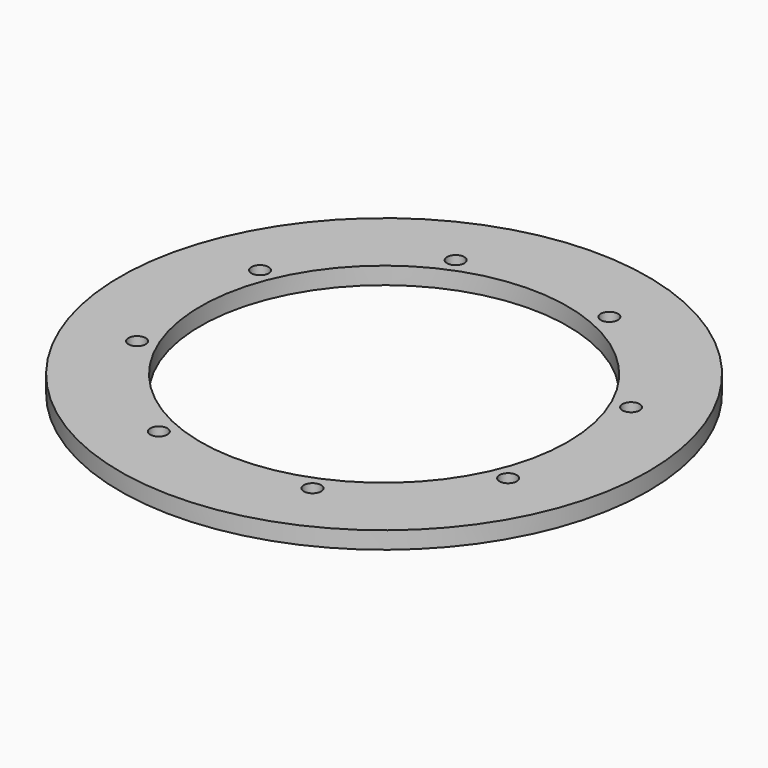
from build123d import *

# Parameters (mm, degrees)
CYLINDER237_R               = 1.5
CYLINDER237_DEPTH           = 20
CYLINDER237_PLACEMENT_ANGLE = 67.5
CYLINDER244_R               = 1.5
CYLINDER244_DEPTH           = 20
CYLINDER244_PLACEMENT_ANGLE = 112.500001
CYLINDER239_R               = 1.5
CYLINDER239_DEPTH           = 20
CYLINDER239_PLACEMENT_ANGLE = 157.5
CYLINDER242_R               = 1.5
CYLINDER242_DEPTH           = 20
CYLINDER242_PLACEMENT_ANGLE = 202.5
CYLINDER240_R               = 1.5
CYLINDER240_DEPTH           = 20
CYLINDER240_PLACEMENT_ANGLE = 112.500005
CYLINDER243_R               = 1.5
CYLINDER243_DEPTH           = 20
CYLINDER243_PLACEMENT_ANGLE = 67.5
CYLINDER238_R               = 1.5
CYLINDER238_DEPTH           = 20
CYLINDER238_PLACEMENT_ANGLE = 22.5
CYLINDER241_R               = 1.5
CYLINDER241_DEPTH           = 20
CYLINDER241_PLACEMENT_ANGLE = 22.5
TUBE024_R                   = 46
TUBE024_R_2                 = 32
TUBE024_DEPTH               = 3


with BuildPart() as obj1:
    # Cylinder237 → Cylinder237 (new body)
    with BuildSketch(Plane.XY):
        Circle(CYLINDER237_R)
    extrude(amount=CYLINDER237_DEPTH)


with BuildPart() as obj1_1:
    # Cylinder237 placement: moved
    add(obj1.part.moved(Location((13.39392, 32.335784, -22))).rotate(Axis((13.39392, 32.335784, -22), (0, 0, 1)), CYLINDER237_PLACEMENT_ANGLE))


with BuildPart() as obj2:
    # Cylinder244 → Cylinder244 (new body)
    with BuildSketch(Plane.XY):
        Circle(CYLINDER244_R)
    extrude(amount=CYLINDER244_DEPTH)


with BuildPart() as obj2_1:
    # Cylinder244 placement: moved
    add(obj2.part.moved(Location((-13.39392, 32.335784, -22))).rotate(Axis((-13.39392, 32.335784, -22), (0, 0, 1)), CYLINDER244_PLACEMENT_ANGLE))


with BuildPart() as obj3:
    # Cylinder239 → Cylinder239 (new body)
    with BuildSketch(Plane.XY):
        Circle(CYLINDER239_R)
    extrude(amount=CYLINDER239_DEPTH)


with BuildPart() as obj3_1:
    # Cylinder239 placement: moved
    add(obj3.part.moved(Location((-32.335784, 13.39392, -22))).rotate(Axis((-32.335784, 13.39392, -22), (0, 0, 1)), CYLINDER239_PLACEMENT_ANGLE))


with BuildPart() as obj4:
    # Cylinder242 → Cylinder242 (new body)
    with BuildSketch(Plane.XY):
        Circle(CYLINDER242_R)
    extrude(amount=CYLINDER242_DEPTH)


with BuildPart() as obj4_1:
    # Cylinder242 placement: moved
    add(obj4.part.moved(Location((-32.335784, -13.39392, -22))).rotate(Axis((-32.335784, -13.39392, -22), (0, 0, 1)), CYLINDER242_PLACEMENT_ANGLE))


with BuildPart() as obj5:
    # Cylinder240 → Cylinder240 (new body)
    with BuildSketch(Plane.XY):
        Circle(CYLINDER240_R)
    extrude(amount=CYLINDER240_DEPTH)


with BuildPart() as obj5_1:
    # Cylinder240 placement: moved
    add(obj5.part.moved(Location((-13.39392, -32.335784, -22))).rotate(Axis((-13.39392, -32.335784, -22), (0, 0, -1)), CYLINDER240_PLACEMENT_ANGLE))


with BuildPart() as obj6:
    # Cylinder243 → Cylinder243 (new body)
    with BuildSketch(Plane.XY):
        Circle(CYLINDER243_R)
    extrude(amount=CYLINDER243_DEPTH)


with BuildPart() as obj6_1:
    # Cylinder243 placement: moved
    add(obj6.part.moved(Location((13.39392, -32.335784, -22))).rotate(Axis((13.39392, -32.335784, -22), (0, 0, -1)), CYLINDER243_PLACEMENT_ANGLE))


with BuildPart() as obj7:
    # Cylinder238 → Cylinder238 (new body)
    with BuildSketch(Plane.XY):
        Circle(CYLINDER238_R)
    extrude(amount=CYLINDER238_DEPTH)


with BuildPart() as obj7_1:
    # Cylinder238 placement: moved
    add(obj7.part.moved(Location((32.335784, -13.39392, -22))).rotate(Axis((32.335784, -13.39392, -22), (0, 0, -1)), CYLINDER238_PLACEMENT_ANGLE))


with BuildPart() as compound223:
    # Cylinder241 → Cylinder241 (new body)
    with BuildSketch(Plane.XY):
        Circle(CYLINDER241_R)
    extrude(amount=CYLINDER241_DEPTH)


with BuildPart() as compound223_1:
    # Cylinder241 placement: moved
    add(compound223.part.moved(Location((32.335784, 13.39392, -22))).rotate(Axis((32.335784, 13.39392, -22), (0, 0, 1)), CYLINDER241_PLACEMENT_ANGLE))

    # Compound223: union obj1, obj2, obj3, obj4, obj5, obj6, obj7
    add(obj1_1.part)
    add(obj2_1.part)
    add(obj3_1.part)
    add(obj4_1.part)
    add(obj5_1.part)
    add(obj6_1.part)
    add(obj7_1.part)


with BuildPart() as compound223_2:
    # Compound223 placement: moved
    add(compound223_1.part.moved(Location((0, 0, 2))))


with BuildPart() as obj8:
    # Tube024 → Tube024 (new body)
    with BuildSketch(Plane.XY.offset(-18)):
        Circle(TUBE024_R)
        Circle(TUBE024_R_2, mode=Mode.SUBTRACT)
    extrude(amount=TUBE024_DEPTH)

    # Cut117: cut Compound223
    add(compound223_2.part, mode=Mode.SUBTRACT)


solid = obj8.part
